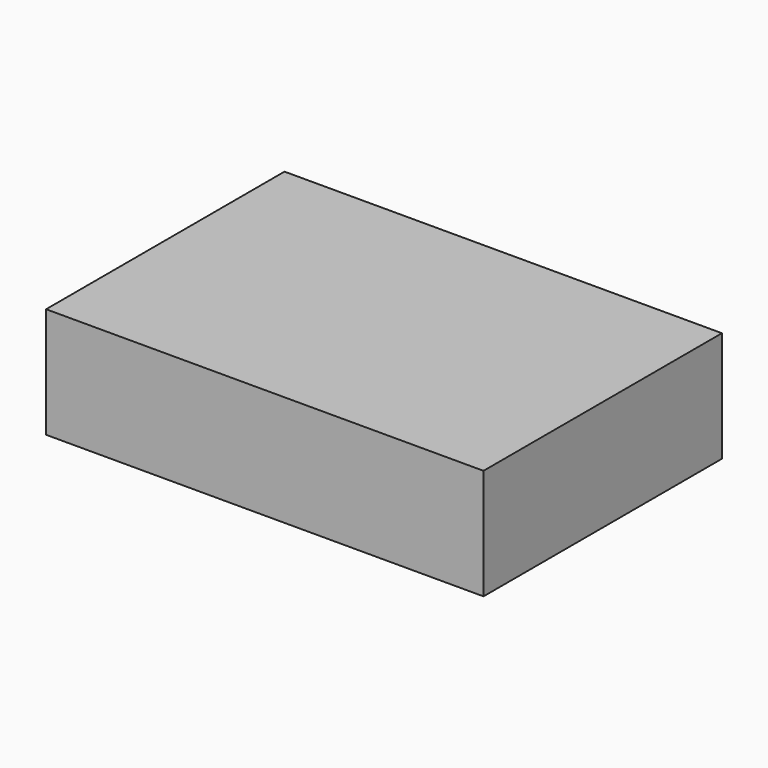
from build123d import *

# Parameters (mm, degrees)
F0_W     = 91
F0_H     = 62
F0_W_2   = 85
F0_H_2   = 56
F1_DEPTH = 23


with BuildPart() as f1:
    # F0 (on Top) → F1 (new body)
    with BuildSketch(Plane.XY):
        Rectangle(F0_W, F0_H)
        Rectangle(F0_W_2, F0_H_2, mode=Mode.SUBTRACT)
        Rectangle(F0_W_2, F0_H_2)
    extrude(amount=F1_DEPTH)


with BuildPart() as f1_1:
    # F2: moved
    add(f1.part)


solid = f1_1.part
